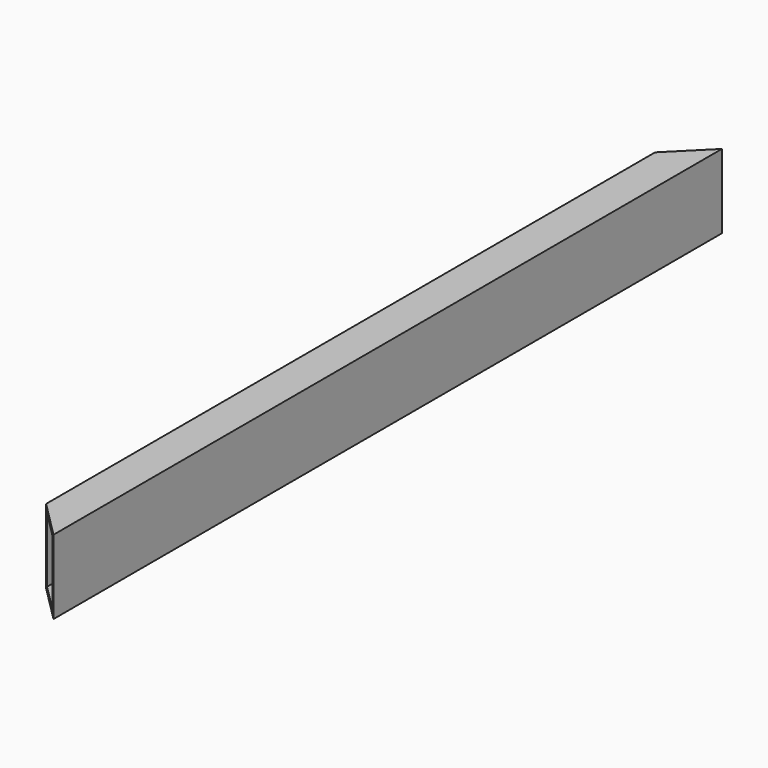
from build123d import *

# Parameters (mm, degrees)
F0_W     = 50.8
F0_H     = 101.6
F0_W_2   = 38.1
F0_H_2   = 88.9
F1_DEPTH = 571.5
F3_DEPTH = 101.601


with BuildPart() as f1:
    # F0 (on Front) → F1 (new body, symmetric)
    with BuildSketch(Plane.XZ):
        Rectangle(F0_W, F0_H)
        Rectangle(F0_W_2, F0_H_2, mode=Mode.SUBTRACT)
    extrude(amount=F1_DEPTH, both=True)

    # F2 (on face) → F3 (cut, through all)
    with BuildSketch(Plane.XY.offset(50.8)):
        Polygon((-25.4, -571.5), (25.4, -571.5), (-25.4, -520.7), align=None)
        Polygon((25.4, 571.5), (-25.4, 571.5), (-25.4, 520.7), align=None)
    extrude(amount=-F3_DEPTH, mode=Mode.SUBTRACT)


solid = f1.part
